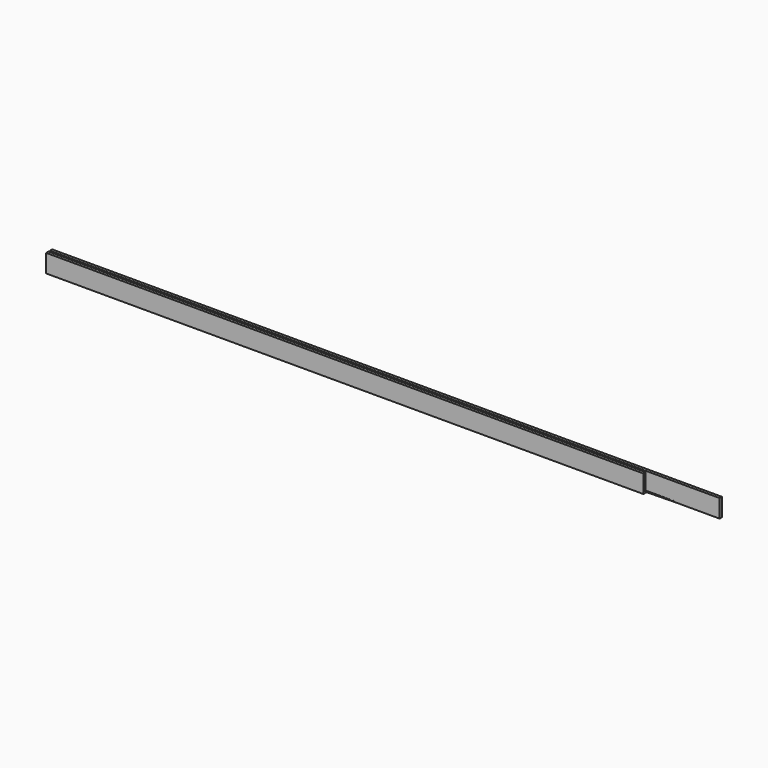
from build123d import *

# Parameters (mm, degrees)
F1_DEPTH = 234.95
F3_DEPTH = 25.4


with BuildPart() as f1:
    # F0 (on Right) → F1 (new body)
    with BuildSketch(Plane.YZ):
        Polygon((-2.667, 0), (0, 0), (0, 6.35), (-1.016, 6.35), (-1.016, 0.254), (-1.651, 0.254), (-1.651, 6.35), (-2.667, 6.35), align=None)
    extrude(amount=F1_DEPTH)

    # F2 (on face) → F3 (cut)
    with BuildSketch(Plane(origin=(0, 0, 0), x_dir=(1, 0, 0), z_dir=(0, 0, -1))):
        Polygon((240.680232, 1.016), (240.680232, 9.774399), (209.55, 9.774399), (209.55, 1.269881), (219.705238, 1.016), align=None)
    extrude(amount=-F3_DEPTH, mode=Mode.SUBTRACT)


solid = f1.part
